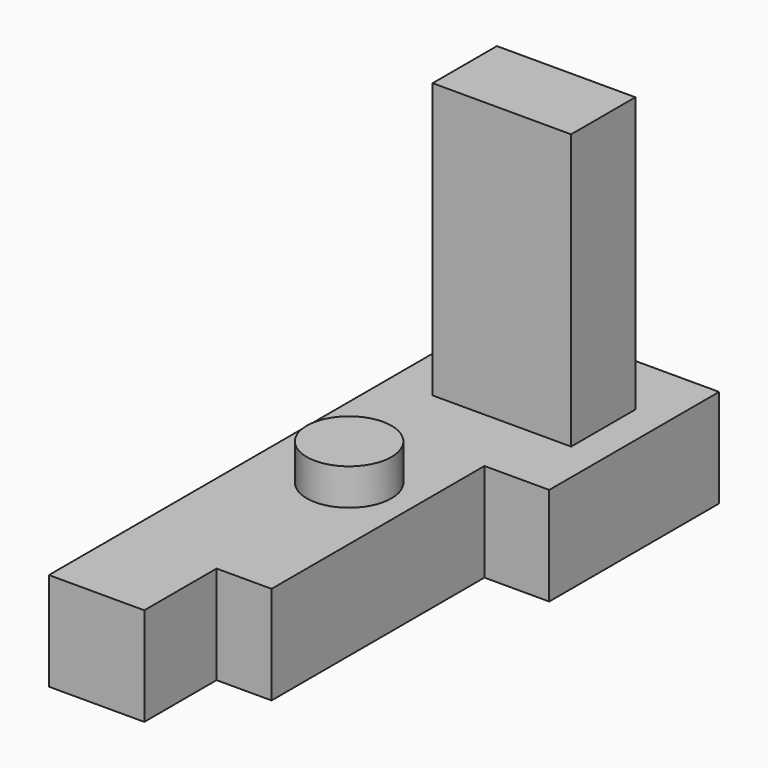
from build123d import *

# Parameters (mm, degrees)
F0_W     = 14.2082790844
F0_H     = 68.7680318952
F0_W_2   = 16.8297942728
F1_DEPTH = 25.4
F2_R     = 10.9503541364
F3_DEPTH = 9.4174239784
F5_W     = 35.7930406462
F5_H     = 20.7620039582
F6_DEPTH = 71.0562486202


with BuildPart() as f1:
    # F0 (on Top) → F1 (new body)
    with BuildSketch(Plane.XY):
        Polygon((3.0717435293, 45.1143532991), (19.8212694377, 45.1143532991), (19.8212694377, 99.9910533428), (-35.7833579183, 99.9910533428), (-35.7833579183, 72.552703321), (-11.1365355551, 72.552703321), (-11.1365355551, 45.1143532991), align=None)
        with Locations((-4.0323960129, 10.7303373516)):
            Rectangle(F0_W, F0_H)
        with Locations((-19.5514326915, 10.7303373516)):
            Rectangle(F0_W_2, F0_H)
        Polygon((-27.9663298279, 45.1143532991), (-11.1365355551, 45.1143532991), (-11.1365355551, 72.552703321), (-35.7833579183, 72.552703321), (-35.7833579183, 45.1143532991), align=None)
        Polygon((-27.9663298279, -23.653678596), (-27.9663298279, 45.1143532991), (-35.7833579183, 45.1143532991), (-35.7833579183, 0), (-35.7833579183, -47.0235422254), (-11.1365355551, -47.0235422254), (-11.1365355551, -23.653678596), align=None)
    extrude(amount=F1_DEPTH)

    # F2 (on face) → F3 (join)
    with BuildSketch(Plane.XY.offset(25.4)):
        with Locations((-13.6862043291, 22.343069315)):
            Circle(F2_R)
    extrude(amount=F3_DEPTH)

    # F5 (on face) → F6 (join)
    with BuildSketch(Plane.XY.offset(25.4)):
        with Locations((-6.4500138396, 73.0364732444)):
            Rectangle(F5_W, F5_H)
    extrude(amount=F6_DEPTH)


solid = f1.part
